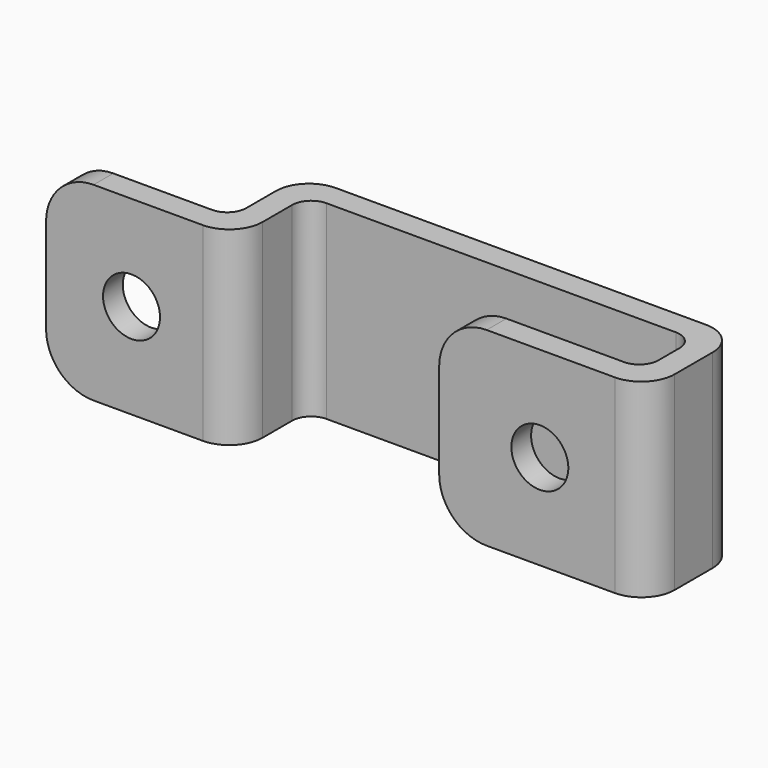
from build123d import *

# Parameters (mm, degrees)
F1_DEPTH = 20
F2_R     = 2
F3_R     = 3.5
F4_R     = 5
F6_D     = 6
F6_DEPTH = 8
F6_TIP   = 1.8025818571


with BuildPart() as f1:
    # F0 (on Top) → F1 (new body)
    with BuildSketch(Plane.XY):
        Polygon((-46.5636339205, 2.6), (-46.5636339205, 0), (-26.5636339205, 0), (-26.5636339205, 9.4), (14.2363660795, 9.4), (14.2363660795, 2.6), (-5.1636339205, 2.6), (-5.1636339205, 0), (16.8363660795, 0), (16.8363660795, 12), (-29.1636339205, 12), (-29.1636339205, 2.6), align=None)
    extrude(amount=F1_DEPTH)

    # F2
    f2_edges = [f1.edges().sort_by_distance(p)[0] for p in [
        (-29.163634, 2.6, 10),
        (14.236366, 2.6, 10),
        (14.236366, 9.4, 10),
        (-26.563634, 9.4, 10),
    ]]
    fillet(f2_edges, radius=F2_R)

    # F3
    f3_edges = [f1.edges().sort_by_distance(p)[0] for p in [
        (16.836366, 12, 10),
        (-29.163634, 12, 10),
        (-26.563634, 0, 10),
        (16.836366, 0, 10),
    ]]
    fillet(f3_edges, radius=F3_R)

    # F4
    f4_edges = [f1.edges().sort_by_distance(p)[0] for p in [
        (-46.563634, 1.3, 0),
        (-46.563634, 1.3, 20),
        (-5.163634, 1.3, 20),
        (-5.163634, 1.3, 0),
    ]]
    fillet(f4_edges, radius=F4_R)

    # F6
    with Locations(Plane.XZ):
        with Locations((-37.5636339205, 10), (5.4363660795, 10)):
            Hole(F6_D / 2, depth=F6_DEPTH)
            with Locations((0, 0, -(F6_DEPTH + F6_TIP / 2))):  # 118° drill point
                Cone(0, F6_D / 2, F6_TIP, mode=Mode.SUBTRACT)


solid = f1.part
